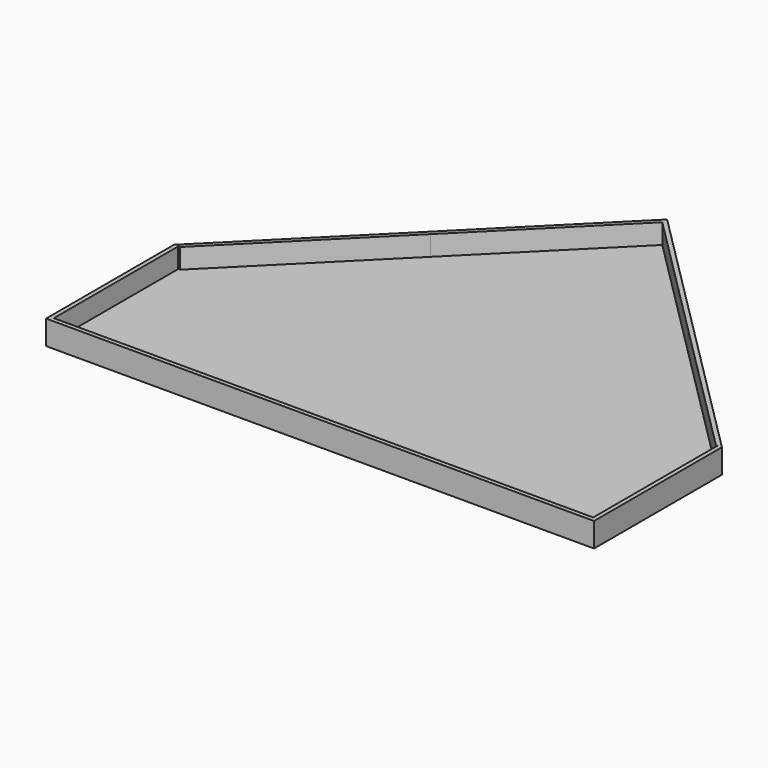
from build123d import *

# Parameters (mm, degrees)
F1_DEPTH = 19.05
F3_DEPTH = 88.9


with BuildPart() as f1:
    # F0 (on Top) → F1 (new body)
    with BuildSketch(Plane.XY):
        Polygon((-1219.2, -225.821003), (-1219.2, -937.021003), (1219.2, -937.021003), (1219.2, -225.821003), (0, 993.378997), align=None)
    extrude(amount=F1_DEPTH)

    # F2 (on face) → F3 (join)
    with BuildSketch(Plane.XY.offset(19.05)):
        Polygon((-1219.2, -917.971003), (-1219.2, -937.021003), (1219.2, -937.021003), (1219.2, -917.971003), (1200.15, -917.971003), (619.125, -917.971003), (600.075, -917.971003), (9.525, -917.971003), (-9.525, -917.971003), (-600.075, -917.971003), (-619.125, -917.971003), (-1200.15, -917.971003), align=None)
        Polygon((-1219.2, -225.821003), (-1219.2, -917.971003), (-1200.15, -917.971003), (-1200.15, -244.871003), (-1200.15, -225.821003), align=None)
        Polygon((1200.15, -917.971003), (1219.2, -917.971003), (1219.2, -225.821003), (1200.15, -225.821003), (1200.15, -244.871003), align=None)
        Polygon((0, 993.378997), (-1219.2, -225.821003), (-1200.15, -225.821003), (-1192.259232, -225.821003), (-592.184232, 374.253997), (-573.134232, 393.303997), (0, 966.438228), (13.470384, 979.908613), align=None)
        Polygon((1200.15, -225.821003), (1219.2, -225.821003), (13.470384, 979.908613), (0, 966.438228), (573.134232, 393.303997), (592.184232, 374.253997), (1192.259232, -225.821003), align=None)
    extrude(amount=F3_DEPTH)


solid = f1.part
